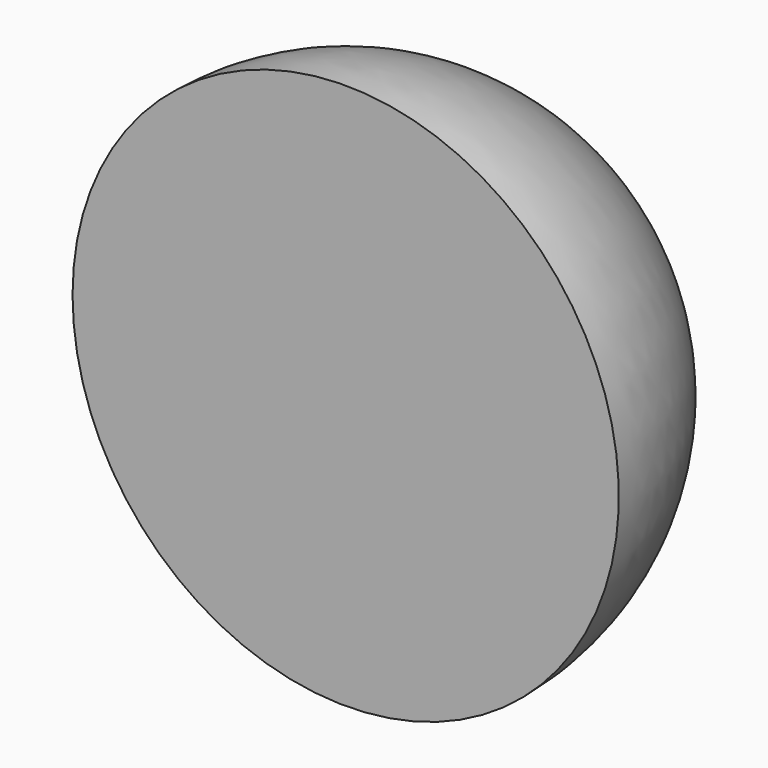
from build123d import *


with BuildPart() as f1:
    # F0 (on Top) → F1 (revolve)
    with BuildSketch(Plane.XY):
        with BuildLine():
            Line((-25.4, 0), (0, 0))
            Line((0, 0), (0, 25.4))
            ThreePointArc((0, 25.4), (-17.960512, 17.960512), (-25.4, 0))
        make_face()
    revolve(axis=Axis((0, 12.7, 0), (0, 1, 0)))


solid = f1.part
